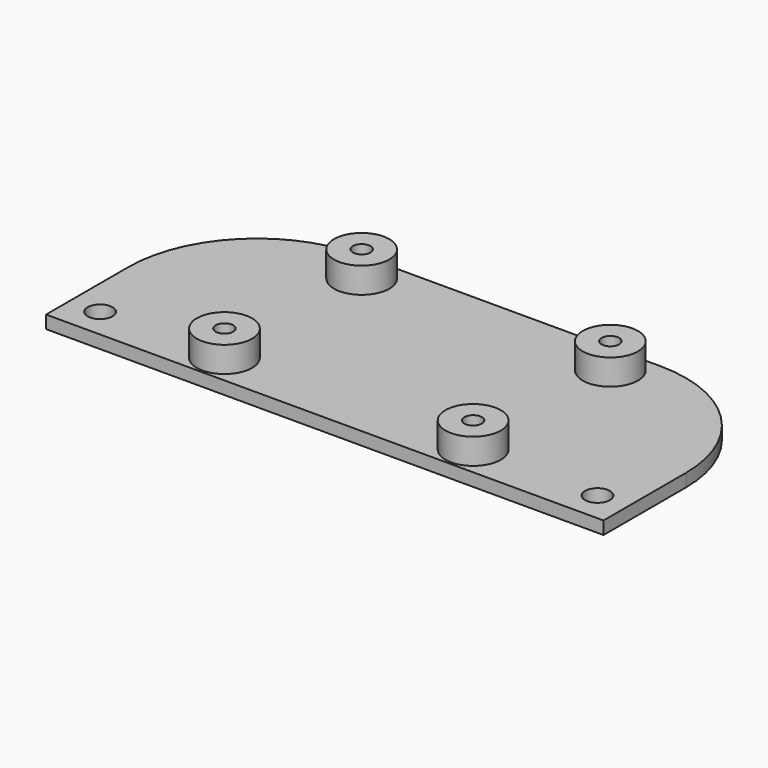
from build123d import *

# Parameters (mm, degrees)
F0_R     = 1.45
F0_R_2   = 3.225
F0_R_3   = 1.025
F1_DEPTH = 1.5
F2_DEPTH = 3


with BuildPart() as f1:
    # F0 (on Top) → F1 (new body)
    with BuildSketch(Plane.XY):
        with BuildLine():
            Line((-32.5, 8.5), (-32.5, -3.5))
            Line((-32.5, -3.5), (32.5, -3.5))
            Line((32.5, -3.5), (32.5, 8.5))
            ThreePointArc((32.5, 8.5), (28.106602, 19.106602), (17.5, 23.5))
            Line((17.5, 23.5), (-17.5, 23.5))
            ThreePointArc((-17.5, 23.5), (-28.106602, 19.106602), (-32.5, 8.5))
        make_face()
        with Locations((-29, 0)):
            Circle(F0_R, mode=Mode.SUBTRACT)
        with Locations((-14.5, 0)):
            Circle(F0_R_2, mode=Mode.SUBTRACT)
        with Locations((14.5, 0)):
            Circle(F0_R_2, mode=Mode.SUBTRACT)
        with Locations((29, 0)):
            Circle(F0_R, mode=Mode.SUBTRACT)
        with Locations((-14.5, 20)):
            Circle(F0_R_2, mode=Mode.SUBTRACT)
        with Locations((14.5, 20)):
            Circle(F0_R_2, mode=Mode.SUBTRACT)
        with Locations((-14.5, 0)):
            Circle(F0_R_2)
        with Locations((-14.5, 0)):
            Circle(F0_R_3, mode=Mode.SUBTRACT)
        with Locations((-14.5, 20)):
            Circle(F0_R_2)
        with Locations((-14.5, 20)):
            Circle(F0_R_3, mode=Mode.SUBTRACT)
        with Locations((14.5, 20)):
            Circle(F0_R_2)
        with Locations((14.5, 20)):
            Circle(F0_R_3, mode=Mode.SUBTRACT)
        with Locations((14.5, 0)):
            Circle(F0_R_2)
        with Locations((14.5, 0)):
            Circle(F0_R_3, mode=Mode.SUBTRACT)
    extrude(amount=-F1_DEPTH)

    # F0 (on Top) → F2 (join)
    with BuildSketch(Plane.XY):
        with Locations((-14.5, 20)):
            Circle(F0_R_2)
        with Locations((-14.5, 20)):
            Circle(F0_R_3, mode=Mode.SUBTRACT)
        with Locations((-14.5, 0)):
            Circle(F0_R_2)
        with Locations((-14.5, 0)):
            Circle(F0_R_3, mode=Mode.SUBTRACT)
        with Locations((14.5, 0)):
            Circle(F0_R_2)
        with Locations((14.5, 0)):
            Circle(F0_R_3, mode=Mode.SUBTRACT)
        with Locations((14.5, 20)):
            Circle(F0_R_2)
        with Locations((14.5, 20)):
            Circle(F0_R_3, mode=Mode.SUBTRACT)
    extrude(amount=F2_DEPTH)


solid = f1.part
